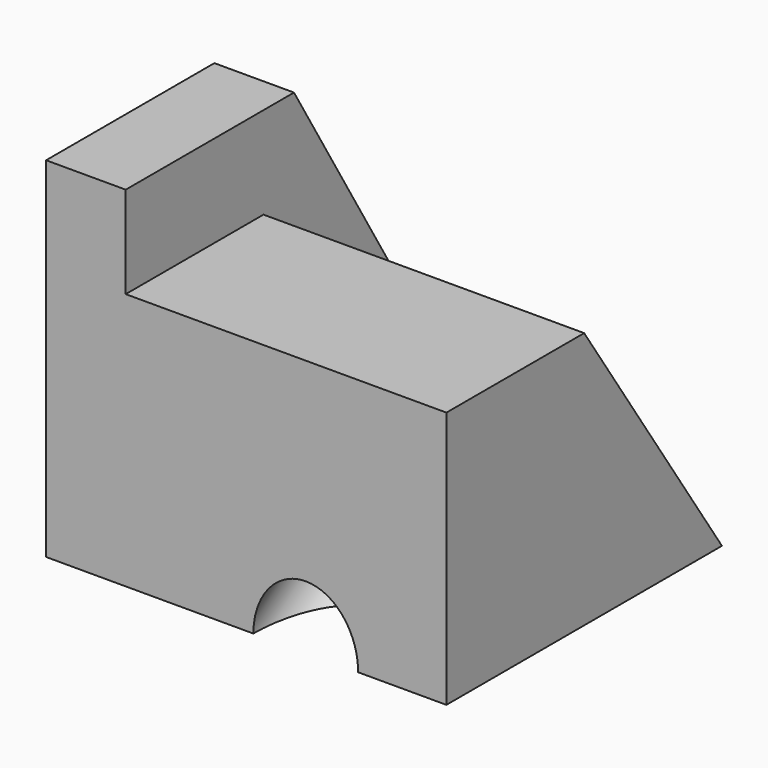
from build123d import *

# Parameters (mm, degrees)
F0_W     = 40.64
F0_H     = 30.364547
F1_DEPTH = 37.846
F3_DEPTH = 37.847
F4_W     = 49.645454
F4_H     = 41.217271
F5_DEPTH = 9.398
F7_DEPTH = 47.245
F8_R     = 6.184121
F9_DEPTH = 33.775958


with BuildPart() as f1:
    # F0 (on Right) → F1 (new body)
    with BuildSketch(Plane.YZ):
        with Locations((20.32, 15.182273)):
            Rectangle(F0_W, F0_H)
    extrude(amount=F1_DEPTH)

    # F2 (on face) → F3 (cut, through all)
    with BuildSketch(Plane(origin=(0, 0, 0), x_dir=(0, -1, 0), z_dir=(-1, 0, 0))):
        Polygon((-40.64, 0), (-20.32, 30.364547), (-40.64, 30.364547), align=None)
    extrude(amount=-F3_DEPTH, mode=Mode.SUBTRACT)

    # F4 (on face) → F5 (join)
    with BuildSketch(Plane(origin=(0, 0, 0), x_dir=(0, -1, 0), z_dir=(-1, 0, 0))):
        with Locations((-24.822727, 20.608635)):
            Rectangle(F4_W, F4_H)
    extrude(amount=F5_DEPTH)

    # F6 (on face) → F7 (cut, through all)
    with BuildSketch(Plane(origin=(-9.398, 0, 0), x_dir=(0, -1, 0), z_dir=(-1, 0, 0))):
        Polygon((-49.645454, 0), (-24.822727, 41.217271), (-49.645454, 41.217271), align=None)
    extrude(amount=-F7_DEPTH, mode=Mode.SUBTRACT)

    # F8 (on face) → F9 (cut, through all)
    with BuildSketch(Plane(origin=(0, 28.069582, 18.784206), x_dir=(-1, 0, 0), z_dir=(0, 0.831077, 0.556158))):
        with Locations((-21.243637, 0)):
            Circle(F8_R)
    extrude(amount=-F9_DEPTH, mode=Mode.SUBTRACT)


solid = f1.part
